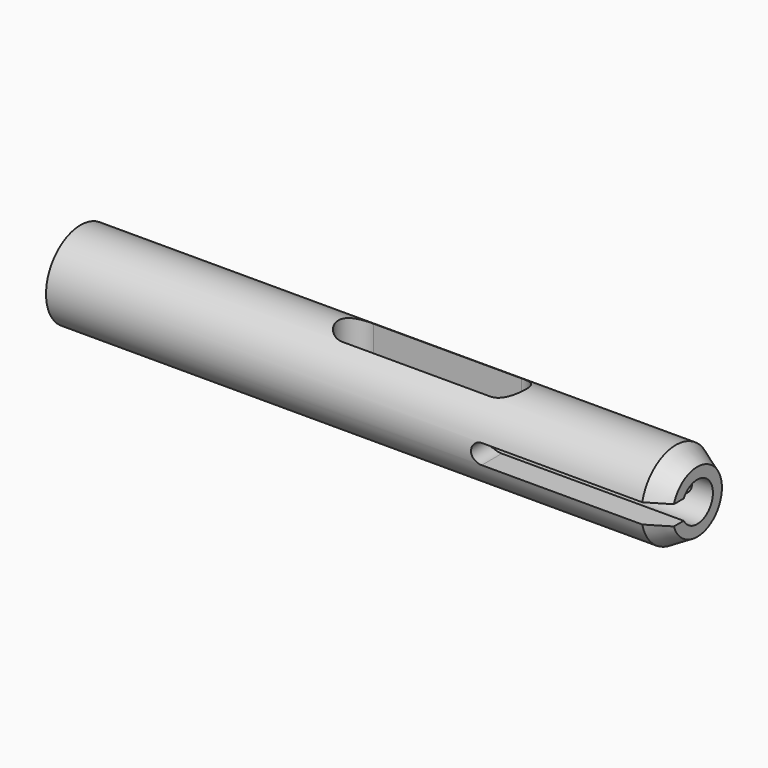
from build123d import *

# Parameters (mm, degrees)
F0_R           = 7
F1_DEPTH       = 100
F2_R           = 3.175
F3_DEPTH       = 35
F4_R           = 3
F5_DEPTH       = 25
F6_SIZE2       = 3.4641016151
F6_SIZE        = 2
F8_DEPTH       = 7.001
F8_DEPTH_BACK  = 1
F10_DEPTH      = 7.0010001
F10_DEPTH_BACK = 7.0010001
F11_W          = 15
F11_H          = 3.175
F12_DEPTH      = 25.0000003725
F13_R          = 1.5
F14_DEPTH      = 6.0010001


with BuildPart() as f1:
    # F0 (on Right) → F1 (new body)
    with BuildSketch(Plane.YZ):
        Circle(F0_R)
    extrude(amount=F1_DEPTH)

    # F2 (on face) → F3 (cut)
    with BuildSketch(Plane.YZ.offset(100)):
        Circle(F2_R)
    extrude(amount=-F3_DEPTH, mode=Mode.SUBTRACT)

    # F4 (on face) → F5 (cut)
    with BuildSketch(Plane(origin=(0, 0, 0), x_dir=(0, -1, 0), z_dir=(-1, 0, 0))):
        Circle(F4_R)
    extrude(amount=-F5_DEPTH, mode=Mode.SUBTRACT)

    # F6
    f6_edges = [f1.edges().sort_by_distance(p)[0] for p in [
        (100, -7, 0),
    ]]
    f6_side = f1.faces().sort_by_distance((100, -6.80201, 0))[0]
    chamfer(f6_edges, length=F6_SIZE, length2=F6_SIZE2, reference=f6_side)

    # F7 (on Top) → F8 (cut, two sides)
    with BuildSketch(Plane.XY) as f8_sk:
        with BuildLine():
            Line((69, 3.175), (45, 3.175))
            ThreePointArc((45, 3.175), (41.825, 0), (45, -3.175))
            Line((45, -3.175), (69, -3.175))
            ThreePointArc((69, -3.175), (72.175, 0), (69, 3.175))
        make_face()
    extrude(amount=F8_DEPTH, mode=Mode.SUBTRACT)
    extrude(f8_sk.sketch, amount=-F8_DEPTH_BACK, mode=Mode.SUBTRACT)

    # F9 (on Front) → F10 (cut, two sides)
    with BuildSketch(Plane.XZ) as f10_sk:
        with BuildLine():
            Line((95, 1.5875), (70.5, 1.5875))
            ThreePointArc((70.5, 1.5875), (68.9125, 0), (70.5, -1.5875))
            Line((70.5, -1.5875), (95, -1.5875))
            ThreePointArc((95, -1.5875), (96.5875, 0), (95, 1.5875))
        make_face()
    extrude(amount=-F10_DEPTH, mode=Mode.SUBTRACT)
    extrude(f10_sk.sketch, amount=F10_DEPTH_BACK, mode=Mode.SUBTRACT)

    # F11 (on Front) → F12 (cut)
    with BuildSketch(Plane.XZ):
        with Locations((95.5, 0)):
            Rectangle(F11_W, F11_H)
    extrude(amount=F12_DEPTH, mode=Mode.SUBTRACT)

    # F13 (on face) → F14 (cut, through all)
    with BuildSketch(Plane.XY.offset(-1)):
        with Locations((50, 0)):
            Circle(F13_R)
        with Locations((55, 0)):
            Circle(F13_R)
        with Locations((60, 0)):
            Circle(F13_R)
    extrude(amount=-F14_DEPTH, mode=Mode.SUBTRACT)


solid = f1.part
